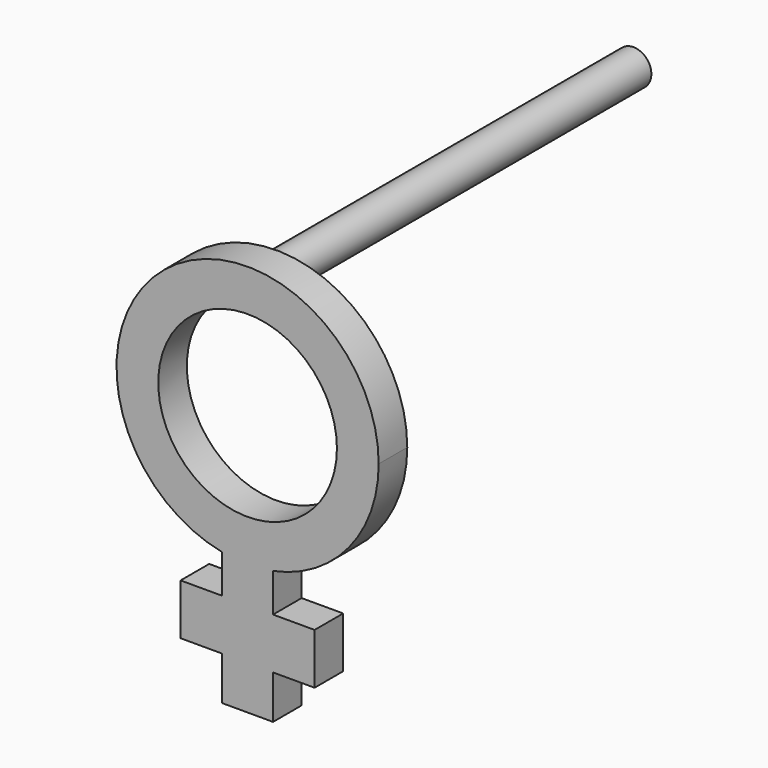
from build123d import *

# Parameters (mm, degrees)
F0_R     = 2
F1_DEPTH = 0.8
F2_R     = 0.4
F3_DEPTH = 10


with BuildPart() as f1:
    # F0 (on Front) → F1 (new body)
    with BuildSketch(Plane.XZ):
        with BuildLine():
            ThreePointArc((0.57, -2.879119), (2.267948, -1.862965), (2.935, 0))
            ThreePointArc((2.935, 0), (-1.862965, 2.267948), (-0.57, -2.879119))
            ThreePointArc((-0.57, -2.879119), (-0.286366, -2.920996), (0, -2.935))
            ThreePointArc((0, -2.935), (0.286366, -2.920996), (0.57, -2.879119))
        make_face()
        Circle(F0_R, mode=Mode.SUBTRACT)
        Polygon((1.5, -3.739119), (0.57, -3.739119), (0, -3.739119), (0, -5.855), (0.57, -5.855), (0.57, -4.879119), (1.5, -4.879119), align=None)
        with BuildLine():
            Line((0.57, -3.739119), (0.57, -2.879119))
            ThreePointArc((0.57, -2.879119), (0.286366, -2.920996), (0, -2.935))
            Line((0, -2.935), (0, -3.739119))
            Line((0, -3.739119), (0.57, -3.739119))
        make_face()
        with BuildLine():
            ThreePointArc((0, -2.935), (-0.286366, -2.920996), (-0.57, -2.879119))
            Line((-0.57, -2.879119), (-0.57, -3.739119))
            Line((-0.57, -3.739119), (0, -3.739119))
            Line((0, -3.739119), (0, -2.935))
        make_face()
        Polygon((0, -3.739119), (-0.57, -3.739119), (-1.5, -3.739119), (-1.5, -4.879119), (-0.57, -4.879119), (-0.57, -5.855), (0, -5.855), align=None)
    extrude(amount=F1_DEPTH)

    # F2 (on face) → F3 (join)
    with BuildSketch(Plane(origin=(0, 0, 0), x_dir=(-1, 0, 0), z_dir=(0, 1, 0))):
        with Locations((0, 2.469715)):
            Circle(F2_R)
    extrude(amount=F3_DEPTH)


solid = f1.part
